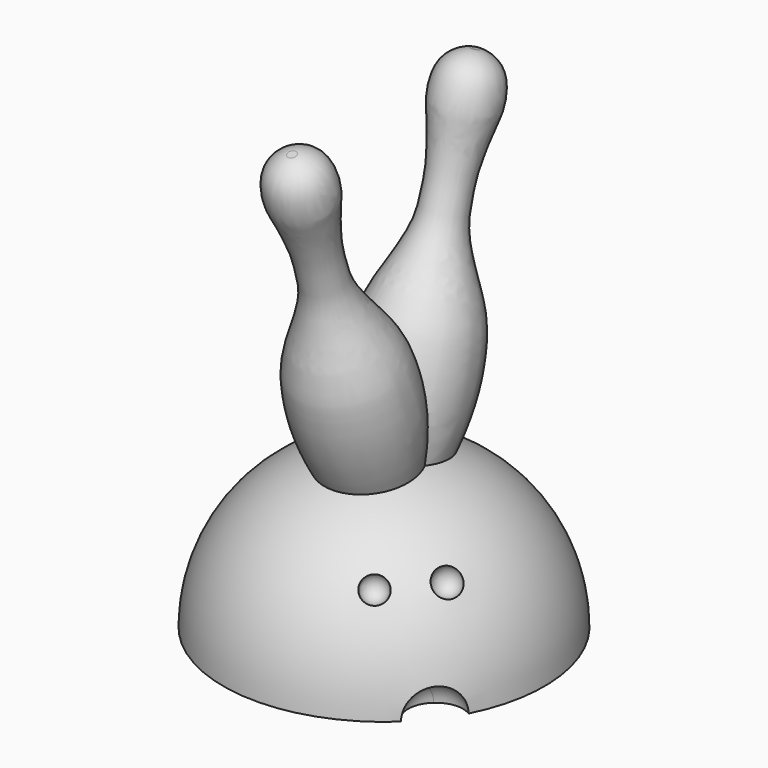
from build123d import *

# Parameters (mm, degrees)
F3_ANGLE = 35
F4_ANGLE = -17.5632116204


with BuildPart() as f1:
    # F0 (on Front) → F1 (revolve)
    with BuildSketch(Plane.XZ):
        with BuildLine():
            Line((0, 89.7412076592), (0, 0))
            Line((0, 0), (5.2869501524, 0))
            add(Edge.make_bspline(
                [(1.0051872814, 89.7412076592), (1.9767102785, 89.7412076592), (6.7683969744, 87.7879464468), (7.6439540301, 80.2221630789), (6.5516169566, 76.0260311835), (4.7526514389, 67.2729453647), (4.7920637371, 62.0306380242), (4.7961190222, 54.2660407471), (11.363880633, 42.3257994089), (12.8613358665, 34.256871251), (13.0878409328, 23.7302954194), (10.2544714995, 10.3751824377), (6.894264119, 3.3570373526), (5.2869501524, 0)],
                knots=[0, 0, 0, 0, 0.0712249845, 0.1541840716, 0.2220192926, 0.3139852196, 0.3864960216, 0.4722584433, 0.5870831289, 0.6773348289, 0.7777669443, 0.8936976909, 1, 1, 1, 1], degree=3))
            Line((1.0051872814, 89.7412076592), (0, 89.7412076592))
        make_face()
    revolve(axis=Axis((0, 0, 44.8706038296), (0, 0, -1)))


with BuildPart() as f3_1:
    # F3: copy of F1
    add(f1.part.rotate(Axis((0, 0, 0), (-1, 0, 0)), F3_ANGLE))


with BuildPart() as f1_1:
    # F4: moved
    add(f1.part.rotate(Axis((0, 0, 0), (-1, 0, 0)), F4_ANGLE))



with BuildPart() as f3_1_1:
    # F4: moved
    add(f3_1.part.rotate(Axis((0, 0, 0), (-1, 0, 0)), F4_ANGLE))


with BuildPart() as f1_2:
    add(f1_1.part)

    add(f3_1_1.part)  # F6 merges F3_1
    # F5 (on Right) → F6 (revolve)
    with BuildSketch(Plane.YZ):
        with BuildLine():
            Line((0, -23.4078615904), (37.79474305, -23.4078615904))
            ThreePointArc((37.79474305, -23.4078615904), (26.7249191039, 3.3170575135), (0, 14.3868814596))
            Line((0, 14.3868814596), (0, -23.4078615904))
        make_face()
    revolve(axis=Axis((0, 0, -23.4078615904), (0, 0, -1)))

    # F7 (on Top) → F8 (revolve, cut)
    with BuildSketch(Plane.XY):
        with BuildLine():
            Line((20.5017171286, -24.5800525513), (14.3342014784, -24.5800525513))
            ThreePointArc((14.3342014784, -24.5800525513), (17.4179593035, -27.5580781765), (20.5017171286, -24.5800525513))
        make_face()
    revolve(axis=Axis((17.4179593035, -24.5800525513, 0), (-1, 0, 0)), mode=Mode.SUBTRACT)

    # F7 (on Top) → F9 (revolve, cut)
    with BuildSketch(Plane.XY):
        with BuildLine():
            Line((29.1359445449, -14.4413830596), (23.0347796859, -13.545979099))
            ThreePointArc((23.0347796859, -13.545979099), (25.619739062, -17.1663753447), (29.1359445449, -14.4413830596))
        make_face()
    revolve(axis=Axis((26.0853621154, -13.9936810793, 0), (-0.9894017213, 0.1452041111, 0)), mode=Mode.SUBTRACT)

    # F10 (on face) → F11 (revolve, cut)
    with BuildSketch(Plane(origin=(0, 0, -23.4078615904), x_dir=(1, 0, 0), z_dir=(0, 0, -1))):
        with BuildLine():
            ThreePointArc((30.2579020549, 22.6473390369), (28.2182585763, 25.1430404911), (25.9733914424, 27.4558835078))
            ThreePointArc((25.9733914424, 27.4558835078), (24.3811163979, 25.2822055342), (23.8174726347, 22.6473390369))
            Line((23.8174726347, 22.6473390369), (30.2579020549, 22.6473390369))
        make_face()
        with BuildLine():
            Line((30.2579020549, 22.6473390369), (36.6983314751, 22.6473390369))
            ThreePointArc((36.6983314751, 22.6473390369), (32.8927685521, 28.5241246939), (25.9733914424, 27.4558835078))
            ThreePointArc((25.9733914424, 27.4558835078), (28.2182585763, 25.1430404911), (30.2579020549, 22.6473390369))
        make_face()
    revolve(axis=Axis((30.2579020549, -22.6473390369, -23.4078615904), (-1, 0, 0)), mode=Mode.SUBTRACT)


solid = f1_2.part
